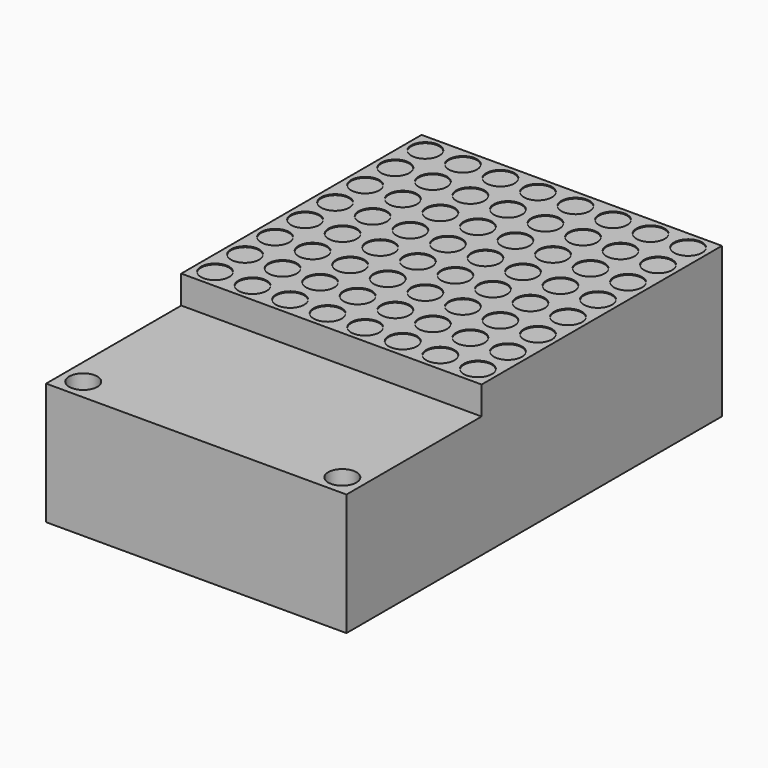
from build123d import *

# Parameters (mm, degrees)
F0_W     = 32
F0_H     = 32
F1_DEPTH = 3
F2_W     = 32
F2_H     = 50
F3_DEPTH = 13
F4_R     = 1.5
F5_DEPTH = 0.1
F6_R     = 1.5
F7_DEPTH = 13.001


with BuildPart() as f1:
    # F0 (on Top) → F1 (new body)
    with BuildSketch(Plane.XY):
        Rectangle(F0_W, F0_H)
    extrude(amount=F1_DEPTH)

    # F2 (on face) → F3 (join)
    with BuildSketch(Plane(origin=(0, 0, 0), x_dir=(1, 0, 0), z_dir=(0, 0, -1))):
        with Locations((0, 9)):
            Rectangle(F2_W, F2_H)
    extrude(amount=F3_DEPTH)

    # F4 (on face) → F5 (cut)
    with BuildSketch(Plane.XY.offset(3)):
        with Locations((14, 14)):
            Circle(F4_R)
        with Locations((14, 10)):
            Circle(F4_R)
        with Locations((14, 6)):
            Circle(F4_R)
        with Locations((14, 2)):
            Circle(F4_R)
        with Locations((14, -2)):
            Circle(F4_R)
        with Locations((14, -6)):
            Circle(F4_R)
        with Locations((14, -10)):
            Circle(F4_R)
        with Locations((14, -14)):
            Circle(F4_R)
        with Locations((10, 14)):
            Circle(F4_R)
        with Locations((10, 10)):
            Circle(F4_R)
        with Locations((10, 6)):
            Circle(F4_R)
        with Locations((10, 2)):
            Circle(F4_R)
        with Locations((10, -2)):
            Circle(F4_R)
        with Locations((10, -6)):
            Circle(F4_R)
        with Locations((10, -10)):
            Circle(F4_R)
        with Locations((10, -14)):
            Circle(F4_R)
        with Locations((6, 14)):
            Circle(F4_R)
        with Locations((6, 10)):
            Circle(F4_R)
        with Locations((6, 6)):
            Circle(F4_R)
        with Locations((6, 2)):
            Circle(F4_R)
        with Locations((6, -2)):
            Circle(F4_R)
        with Locations((6, -6)):
            Circle(F4_R)
        with Locations((6, -10)):
            Circle(F4_R)
        with Locations((6, -14)):
            Circle(F4_R)
        with Locations((2, 14)):
            Circle(F4_R)
        with Locations((2, 10)):
            Circle(F4_R)
        with Locations((2, 6)):
            Circle(F4_R)
        with Locations((2, 2)):
            Circle(F4_R)
        with Locations((2, -2)):
            Circle(F4_R)
        with Locations((2, -6)):
            Circle(F4_R)
        with Locations((2, -10)):
            Circle(F4_R)
        with Locations((2, -14)):
            Circle(F4_R)
        with Locations((-2, 14)):
            Circle(F4_R)
        with Locations((-2, 10)):
            Circle(F4_R)
        with Locations((-2, 6)):
            Circle(F4_R)
        with Locations((-2, 2)):
            Circle(F4_R)
        with Locations((-2, -2)):
            Circle(F4_R)
        with Locations((-2, -6)):
            Circle(F4_R)
        with Locations((-2, -10)):
            Circle(F4_R)
        with Locations((-2, -14)):
            Circle(F4_R)
        with Locations((-6, 14)):
            Circle(F4_R)
        with Locations((-6, 10)):
            Circle(F4_R)
        with Locations((-6, 6)):
            Circle(F4_R)
        with Locations((-6, 2)):
            Circle(F4_R)
        with Locations((-6, -2)):
            Circle(F4_R)
        with Locations((-6, -6)):
            Circle(F4_R)
        with Locations((-6, -10)):
            Circle(F4_R)
        with Locations((-6, -14)):
            Circle(F4_R)
        with Locations((-10, 14)):
            Circle(F4_R)
        with Locations((-10, 10)):
            Circle(F4_R)
        with Locations((-10, 6)):
            Circle(F4_R)
        with Locations((-10, 2)):
            Circle(F4_R)
        with Locations((-10, -2)):
            Circle(F4_R)
        with Locations((-10, -6)):
            Circle(F4_R)
        with Locations((-10, -10)):
            Circle(F4_R)
        with Locations((-10, -14)):
            Circle(F4_R)
        with Locations((-14, 14)):
            Circle(F4_R)
        with Locations((-14, 10)):
            Circle(F4_R)
        with Locations((-14, 6)):
            Circle(F4_R)
        with Locations((-14, 2)):
            Circle(F4_R)
        with Locations((-14, -2)):
            Circle(F4_R)
        with Locations((-14, -6)):
            Circle(F4_R)
        with Locations((-14, -10)):
            Circle(F4_R)
        with Locations((-14, -14)):
            Circle(F4_R)
    extrude(amount=-F5_DEPTH, mode=Mode.SUBTRACT)

    # F6 (on face) → F7 (cut, through all)
    with BuildSketch(Plane.XY):
        with Locations((-13.8, -31.8)):
            Circle(F6_R)
        with Locations((13.8, -31.8)):
            Circle(F6_R)
    extrude(amount=-F7_DEPTH, mode=Mode.SUBTRACT)


solid = f1.part
